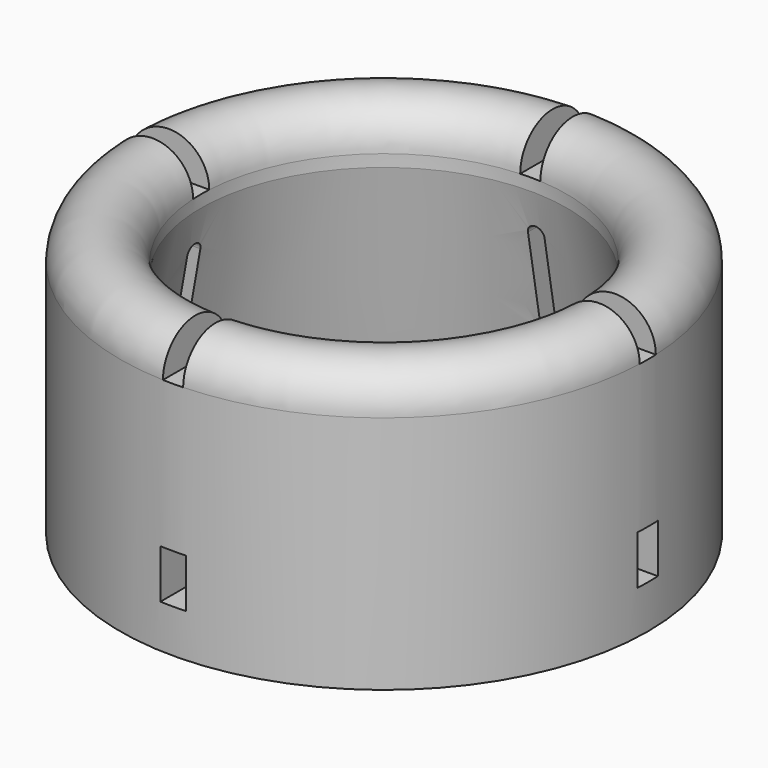
from build123d import *

# Parameters (mm, degrees)
POCKET001_DEPTH       = 111.6
POLARPATTERN001_COUNT = 4
SKETCH018_W           = 12.6
SKETCH018_H           = 33
POCKET002_DEPTH       = 111.6
POLARPATTERN002_COUNT = 4
SKETCH019_W           = 12.6
SKETCH019_H           = 24.2
POCKET003_DEPTH       = 920.1486
POLARPATTERN003_COUNT = 4
SKETCH020_R           = 0.75
POCKET004_DEPTH       = 121.6
POLARPATTERN004_COUNT = 4
SKETCH021_W           = 10
SKETCH021_H           = 30
POCKET005_DEPTH       = 920.1486
POLARPATTERN005_COUNT = 4


with BuildPart() as part:
    # Sketch → Revolution (revolve)
    with BuildSketch(Plane.XZ):
        with BuildLine():
            Line((110.527128, -120.57), (130.678, -120.57))
            Line((130.678, -120.57), (130.678, -2))
            ThreePointArc((130.678, -2), (110.678, 18), (90.678, -2))
            Line((90.678, -2), (90.678, -8))
            Line((90.678, -8), (110.527128, -120.57))
        make_face()
    revolve(axis=Axis((0, 0, 0), (0, 0, 1)))

    # Sketch017 → Pocket001 (cut)
    with BuildSketch(Plane.YZ):
        with BuildLine():
            ThreePointArc((-4.1, -148.6), (0, -152.7), (4.1, -148.6))
            Line((4.1, -148.6), (4.1, -28.6))
            ThreePointArc((4.1, -28.6), (0, -24.5), (-4.1, -28.6))
            Line((-4.1, -148.6), (-4.1, -28.6))
        make_face()
    pocket001 = extrude(amount=-POCKET001_DEPTH, mode=Mode.SUBTRACT)

    # PolarPattern001: Pocket001 ×4 about axis
    polarpattern001_axis = Axis((0, 0, 0), (0, 0, 1))
    for i in range(1, POLARPATTERN001_COUNT):
        add(pocket001.rotate(polarpattern001_axis, i * 360 / POLARPATTERN001_COUNT), mode=Mode.SUBTRACT)

    # Sketch018 → Pocket002 (cut)
    with BuildSketch(Plane.YZ):
        with Locations((0, -87)):
            Rectangle(SKETCH018_W, SKETCH018_H)
    pocket002 = extrude(amount=-POCKET002_DEPTH, mode=Mode.SUBTRACT)

    # PolarPattern002: Pocket002 ×4 about axis
    polarpattern002_axis = Axis((0, 0, 0), (0, 0, 1))
    for i in range(1, POLARPATTERN002_COUNT):
        add(pocket002.rotate(polarpattern002_axis, i * 360 / POLARPATTERN002_COUNT), mode=Mode.SUBTRACT)

    # Sketch019 → Pocket003 (cut, through all)
    with BuildSketch(Plane.YZ):
        with Locations((0, -87)):
            Rectangle(SKETCH019_W, SKETCH019_H)
    pocket003 = extrude(amount=-POCKET003_DEPTH, mode=Mode.SUBTRACT)

    # PolarPattern003: Pocket003 ×4 about axis
    polarpattern003_axis = Axis((0, 0, 0), (0, 0, 1))
    for i in range(1, POLARPATTERN003_COUNT):
        add(pocket003.rotate(polarpattern003_axis, i * 360 / POLARPATTERN003_COUNT), mode=Mode.SUBTRACT)

    # Sketch020 → Pocket004 (cut)
    with BuildSketch(Plane.YZ):
        with Locations((0, -73.25)):
            Circle(SKETCH020_R)
        with Locations((0, -100.75)):
            Circle(SKETCH020_R)
    pocket004 = extrude(amount=-POCKET004_DEPTH, mode=Mode.SUBTRACT)

    # PolarPattern004: Pocket004 ×4 about axis
    polarpattern004_axis = Axis((0, 0, 0), (0, 0, 1))
    for i in range(1, POLARPATTERN004_COUNT):
        add(pocket004.rotate(polarpattern004_axis, i * 360 / POLARPATTERN004_COUNT), mode=Mode.SUBTRACT)

    # Sketch021 → Pocket005 (cut, through all)
    with BuildSketch(Plane.YZ):
        with Locations((0, 13)):
            Rectangle(SKETCH021_W, SKETCH021_H)
    pocket005 = extrude(amount=-POCKET005_DEPTH, mode=Mode.SUBTRACT)

    # PolarPattern005: Pocket005 ×4 about axis
    polarpattern005_axis = Axis((0, 0, 0), (0, 0, 1))
    for i in range(1, POLARPATTERN005_COUNT):
        add(pocket005.rotate(polarpattern005_axis, i * 360 / POLARPATTERN005_COUNT), mode=Mode.SUBTRACT)


solid = part.part
